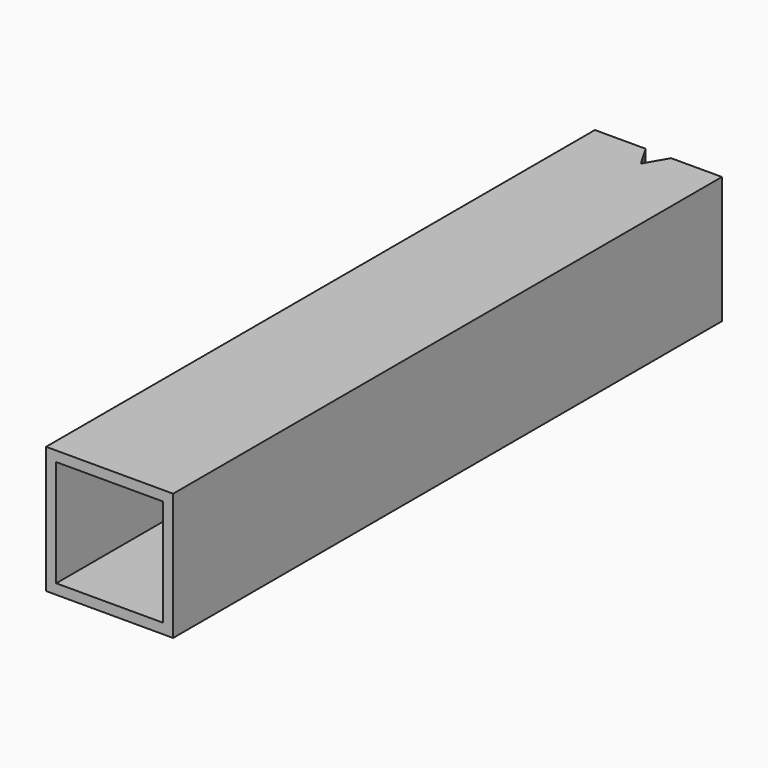
from build123d import *

# Parameters (mm, degrees)
F0_W     = 31.75
F0_H     = 31.75
F0_W_2   = 26.67
F0_H_2   = 26.67
F1_DEPTH = 85.725
F3_DEPTH = 31.75


with BuildPart() as f1:
    # F0 (on Front) → F1 (new body, symmetric)
    with BuildSketch(Plane.XZ):
        Rectangle(F0_W, F0_H)
        Rectangle(F0_W_2, F0_H_2, mode=Mode.SUBTRACT)
    extrude(amount=F1_DEPTH, both=True)

    # F2 (on face) → F3 (cut, through all)
    with BuildSketch(Plane(origin=(0, 0, -15.875), x_dir=(1, 0, 0), z_dir=(0, 0, -1))):
        Polygon((0, -80.225739), (-3.175, -85.725), (3.175, -85.725), align=None)
    extrude(amount=-F3_DEPTH, mode=Mode.SUBTRACT)


solid = f1.part
